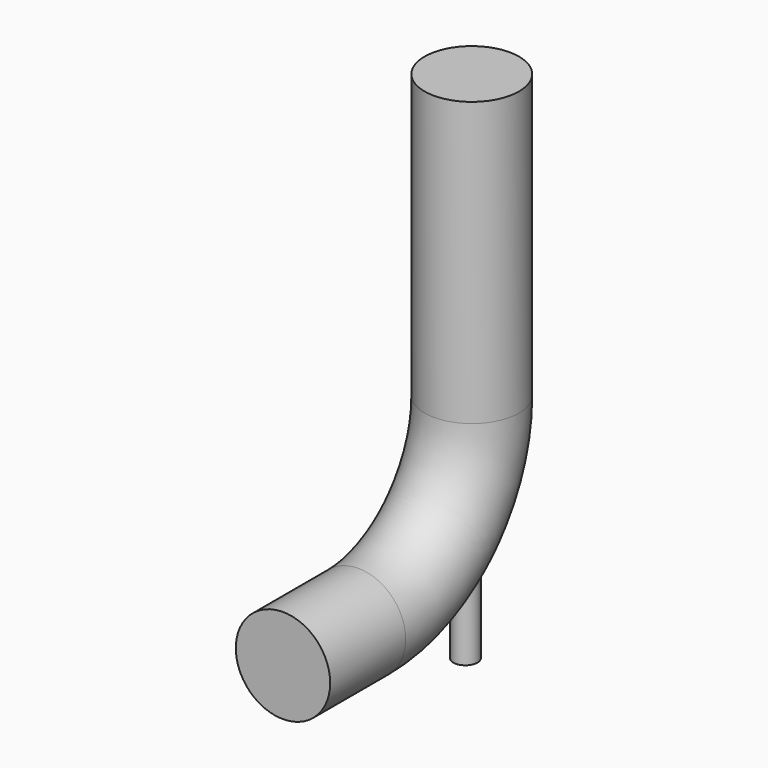
from build123d import *

# Parameters (mm, degrees)
F1_R     = 500
F4_R     = 127
F5_DEPTH = 1658.62


with BuildPart() as f2:
    # F2: sweep along a path in F0
    with BuildLine(Plane.YZ) as f2_path:
        Line((0, 0), (1000, 0))
        ThreePointArc((1000, 0), (2060.660172, 439.339828), (2500, 1500))
        Line((2500, 1500), (2500, 4500))
    # F1 (on Front) → F2 (sweep)
    with BuildSketch(Plane.XZ):
        Circle(F1_R)
    sweep(path=f2_path.line)

    # F4 (on face) → F5 (join)
    with BuildSketch(Plane(origin=(0, 0, -914.213562), x_dir=(1, 0, 0), z_dir=(0, 0, -1))):
        with Locations((0, -2415.873528)):
            Circle(F4_R)
    extrude(amount=-F5_DEPTH)


solid = f2.part
